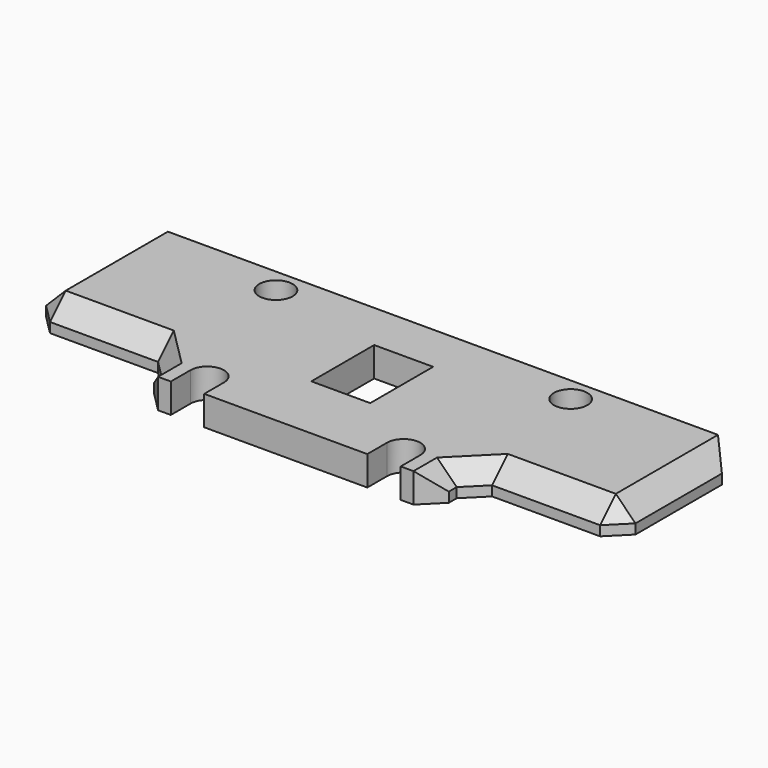
from build123d import *

# Parameters (mm, degrees)
PAD001_DEPTH    = 3
SKETCH004_W     = 6
SKETCH004_H     = 8
POCKET002_DEPTH = 5
SKETCH005_R     = 1.7
HOLE_DEPTH      = 25
CHAMFER001_SIZE = 2
POCKET005_DEPTH = 5


with BuildPart() as part:
    # Sketch003 → Pad001 (new body)
    with BuildSketch(Plane.XY):
        Polygon((-30, 10), (30, 10), (30, -5), (15, -5), (15, -10), (-15, -10), (-15, -5), (-30, -5), align=None)
    extrude(amount=PAD001_DEPTH)

    # Sketch004 → Pocket002 (cut)
    with BuildSketch(Plane.XY):
        with Locations((0, 1)):
            Rectangle(SKETCH004_W, SKETCH004_H)
    extrude(amount=POCKET002_DEPTH, mode=Mode.SUBTRACT)

    # Sketch005 → Hole (cut)
    with BuildSketch(Plane.XY):
        with Locations((-15, 7.5)):
            Circle(SKETCH005_R)
        with Locations((15, 7.5)):
            Circle(SKETCH005_R)
        with Locations((-10, -7.5)):
            Circle(SKETCH005_R)
        with Locations((10, -7.5)):
            Circle(SKETCH005_R)
    extrude(amount=HOLE_DEPTH, mode=Mode.SUBTRACT)

    # Chamfer001
    chamfer001_edges = [part.edges().sort_by_distance(p)[0] for p in [
        (-30, 10, 1.5),
        (30, 10, 1.5),
        (-30, 2.5, 3),
        (-22.5, -5, 3),
        (-15, -7.5, 3),
        (15, -7.5, 3),
        (22.5, -5, 3),
        (30, 2.5, 3),
        (30, -5, 1.5),
        (15, -10, 1.5),
        (15, -5, 1.5),
        (-15, -10, 1.5),
        (-15, -5, 1.5),
        (-30, -5, 1.5),
    ]]
    chamfer(chamfer001_edges, length=CHAMFER001_SIZE)

    # Sketch014 → Pocket005 (cut)
    with BuildSketch(Plane.XY):
        with BuildLine():
            Line((-11.7, -7.5), (-11.7, -10))
            Line((-11.7, -10), (-8.3, -10))
            Line((-8.3, -10), (-8.3, -7.5))
            ThreePointArc((-8.3, -7.5), (-10, -5.8), (-11.7, -7.5))
        make_face()
        with BuildLine():
            Line((8.3, -7.5), (8.3, -10))
            Line((8.3, -10), (11.7, -10))
            Line((11.7, -10), (11.7, -7.5))
            ThreePointArc((11.7, -7.5), (10, -5.8), (8.3, -7.5))
        make_face()
    extrude(amount=POCKET005_DEPTH, mode=Mode.SUBTRACT)


solid = part.part
